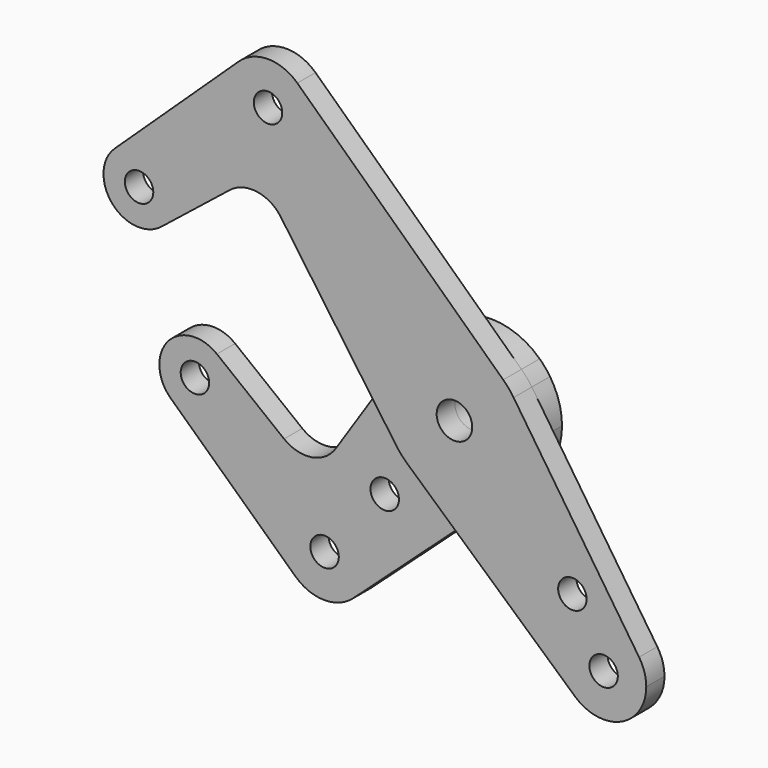
from build123d import *

# Parameters (mm, degrees)
F0_R     = 3.96875
F0_R_2   = 3.175
F1_DEPTH = 5.08
F2_DEPTH = 5.08


with BuildPart() as f1:
    # F0 (on Front) → F1 (new body)
    with BuildSketch(Plane.XZ):
        with BuildLine():
            ThreePointArc((-13.2524193062, 8.7400805221), (-1.834314477, 15.7686687897), (10.8922900307, 11.5487507067))
            Line((10.8922900307, 11.5487507067), (-35.0711574392, 54.8995176744))
            ThreePointArc((-35.0711574392, 54.8995176744), (-32.8608164346, 51.7436071154), (-32.0815314576, 47.9702672503))
            ThreePointArc((-32.0815314576, 47.9702672503), (-45.3798713227, 39.2245522274), (-48.1419054761, 54.8995176744))
            Line((-48.1419054761, 54.8995176744), (-75.8348368232, 28.7807237291))
            ThreePointArc((-75.8348368232, 28.7807237291), (-67.2442419203, 30.2944442282), (-62.4511918078, 23.0063483758))
            ThreePointArc((-62.4511918078, 23.0063483758), (-63.237943921, 19.5609585706), (-65.4422370763, 16.798571653))
            Line((-65.4422370763, 16.798571653), (-50.1509863937, 28.9828821829))
            ThreePointArc((-50.1509863937, 28.9828821829), (-44.0823996147, 30.6328866939), (-38.7182233604, 27.3502241323))
            Line((-38.7182233604, 27.3502241323), (-19.2147683858, -0.3005169703))
            Line((-19.2147683858, -0.3005169703), (-13.2524193062, 8.7400805221))
        make_face()
        with BuildLine():
            ThreePointArc((15.875, 0), (15.1912005478, 4.609018433), (13.1987101208, 8.820979319))
            ThreePointArc((13.1987101208, 8.820979319), (12.1224690662, 10.2499448164), (10.8922900307, 11.5487507067))
            ThreePointArc((10.8922900307, 11.5487507067), (-1.834314477, 15.7686687897), (-13.2524193062, 8.7400805221))
            ThreePointArc((-13.2524193062, 8.7400805221), (-15.8730587934, -0.2482529814), (-12.9726166036, -9.1502373442))
            ThreePointArc((-12.9726166036, -9.1502373442), (-11.8607666217, -10.5516747555), (-10.5983019047, -11.8191210221))
            ThreePointArc((-10.5983019047, -11.8191210221), (0.0485522706, -15.8749257534), (10.6703987497, -11.7540722953))
            ThreePointArc((10.6703987497, -11.7540722953), (14.5156502636, -6.4274040191), (15.875, 0))
        make_face()
        Circle(F0_R, mode=Mode.SUBTRACT)
        with BuildLine():
            ThreePointArc((-12.9726166036, -9.1502373442), (-15.8730587934, -0.2482529814), (-13.2524193062, 8.7400805221))
            Line((-13.2524193062, 8.7400805221), (-19.2147683858, -0.3005169703))
            Line((-19.2147683858, -0.3005169703), (-12.9726166036, -9.1502373442))
        make_face()
        with BuildLine():
            Line((-10.5983019047, -11.8191210221), (0.0653932355, -21.3813431455))
            Line((0.0653932355, -21.3813431455), (10.6703987497, -11.7540722953))
            ThreePointArc((10.6703987497, -11.7540722953), (0.0485522706, -15.8749257534), (-10.5983019047, -11.8191210221))
        make_face()
        with BuildLine():
            ThreePointArc((26.9262440233, -45.4676864135), (27.0442454474, -31.1806737127), (41.2044512386, -33.0836262089))
            Line((41.2044512386, -33.0836262089), (13.1987101208, 8.820979319))
            ThreePointArc((13.1987101208, 8.820979319), (15.1912005478, 4.609018433), (15.875, 0))
            ThreePointArc((15.875, 0), (14.5156502636, -6.4274040191), (10.6703987497, -11.7540722953))
            Line((10.6703987497, -11.7540722953), (0.0653932355, -21.3813431455))
            Line((0.0653932355, -21.3813431455), (26.9262440233, -45.4676864135))
        make_face()
        with Locations((26.3222689506, -25.5025770961)):
            Circle(F0_R_2, mode=Mode.SUBTRACT)
        with BuildLine():
            ThreePointArc((26.9262440233, -45.4676864135), (37.1682864336, -47.0737686401), (42.8102251661, -38.3762138003))
            ThreePointArc((42.8102251661, -38.3762138003), (42.3999454948, -35.6108027404), (41.2044512386, -33.0836262089))
            ThreePointArc((41.2044512386, -33.0836262089), (27.0442454474, -31.1806737127), (26.9262440233, -45.4676864135))
        make_face()
        with Locations((33.2852251661, -38.3762138003)):
            Circle(F0_R_2, mode=Mode.SUBTRACT)
        with BuildLine():
            ThreePointArc((-62.4511918078, 23.0063483758), (-67.2442419203, 30.2944442282), (-75.8348368232, 28.7807237291))
            ThreePointArc((-75.8348368232, 28.7807237291), (-76.3849752141, 17.8055319436), (-65.4422370763, 16.798571653))
            ThreePointArc((-65.4422370763, 16.798571653), (-63.237943921, 19.5609585706), (-62.4511918078, 23.0063483758))
        make_face()
        with Locations((-70.3886918078, 23.0063483758)):
            Circle(F0_R_2, mode=Mode.SUBTRACT)
        with BuildLine():
            ThreePointArc((-32.0815314576, 47.9702672503), (-32.8608164346, 51.7436071154), (-35.0711574392, 54.8995176744))
            ThreePointArc((-35.0711574392, 54.8995176744), (-41.6065314576, 57.4952672503), (-48.1419054761, 54.8995176744))
            ThreePointArc((-48.1419054761, 54.8995176744), (-45.3798713227, 39.2245522274), (-32.0815314576, 47.9702672503))
        make_face()
        with Locations((-41.6065314576, 47.9702672503)):
            Circle(F0_R_2, mode=Mode.SUBTRACT)
    extrude(amount=F1_DEPTH)


with BuildPart() as f2:
    # F0 (on Front) → F2 (new body)
    with BuildSketch(Plane.XZ):
        with BuildLine():
            Line((-26.647623873, -45.6315380732), (0.0653932355, -21.3813431455))
            Line((0.0653932355, -21.3813431455), (-10.5983019047, -11.8191210221))
            ThreePointArc((-10.5983019047, -11.8191210221), (-11.8607666217, -10.5516747555), (-12.9726166036, -9.1502373442))
            Line((-12.9726166036, -9.1502373442), (-19.2147683858, -0.3005169703))
            Line((-19.2147683858, -0.3005169703), (-30.5474012326, -17.4839744853))
            ThreePointArc((-30.5474012326, -17.4839744853), (-35.9047663103, -20.9493627188), (-42.0820013957, -19.3518512525))
            Line((-42.0820013957, -19.3518512525), (-57.0757936348, -7.5537803256))
            ThreePointArc((-57.0757936348, -7.5537803256), (-54.8440071189, -10.3244537385), (-54.0466841448, -13.7916973539))
            ThreePointArc((-54.0466841448, -13.7916973539), (-58.817458973, -21.070142101), (-67.394906617, -19.5992776228))
            Line((-67.394906617, -19.5992776228), (-39.5427300894, -45.5481910186))
            ThreePointArc((-39.5427300894, -45.5481910186), (-36.849933329, -29.8449609995), (-23.5248631228, -38.579094696))
            ThreePointArc((-23.5248631228, -38.579094696), (-24.3404729646, -42.4355371074), (-26.647623873, -45.6315380732))
        make_face()
        with Locations((-19.6233562292, -22.9063374758)):
            Circle(F0_R_2, mode=Mode.SUBTRACT)
        with BuildLine():
            ThreePointArc((15.875, 0), (15.1912005478, 4.609018433), (13.1987101208, 8.820979319))
            ThreePointArc((13.1987101208, 8.820979319), (12.1224690662, 10.2499448164), (10.8922900307, 11.5487507067))
            ThreePointArc((10.8922900307, 11.5487507067), (-1.834314477, 15.7686687897), (-13.2524193062, 8.7400805221))
            ThreePointArc((-13.2524193062, 8.7400805221), (-15.8730587934, -0.2482529814), (-12.9726166036, -9.1502373442))
            ThreePointArc((-12.9726166036, -9.1502373442), (-11.8607666217, -10.5516747555), (-10.5983019047, -11.8191210221))
            ThreePointArc((-10.5983019047, -11.8191210221), (0.0485522706, -15.8749257534), (10.6703987497, -11.7540722953))
            ThreePointArc((10.6703987497, -11.7540722953), (14.5156502636, -6.4274040191), (15.875, 0))
        make_face()
        Circle(F0_R, mode=Mode.SUBTRACT)
        with BuildLine():
            ThreePointArc((-39.5427300894, -45.5481910186), (-33.1114263313, -48.1038957423), (-26.647623873, -45.6315380732))
            ThreePointArc((-26.647623873, -45.6315380732), (-24.3404729646, -42.4355371074), (-23.5248631228, -38.579094696))
            ThreePointArc((-23.5248631228, -38.579094696), (-36.849933329, -29.8449609995), (-39.5427300894, -45.5481910186))
        make_face()
        with Locations((-33.0498631228, -38.579094696)):
            Circle(F0_R_2, mode=Mode.SUBTRACT)
        with BuildLine():
            ThreePointArc((-57.0757936348, -7.5537803256), (-68.0121676911, -8.627656241), (-67.394906617, -19.5992776228))
            ThreePointArc((-67.394906617, -19.5992776228), (-58.817458973, -21.070142101), (-54.0466841448, -13.7916973539))
            ThreePointArc((-54.0466841448, -13.7916973539), (-54.8440071189, -10.3244537385), (-57.0757936348, -7.5537803256))
        make_face()
        with Locations((-61.9841841448, -13.7916973539)):
            Circle(F0_R_2, mode=Mode.SUBTRACT)
        with BuildLine():
            Line((-10.5983019047, -11.8191210221), (0.0653932355, -21.3813431455))
            Line((0.0653932355, -21.3813431455), (10.6703987497, -11.7540722953))
            ThreePointArc((10.6703987497, -11.7540722953), (0.0485522706, -15.8749257534), (-10.5983019047, -11.8191210221))
        make_face()
        with BuildLine():
            ThreePointArc((-12.9726166036, -9.1502373442), (-15.8730587934, -0.2482529814), (-13.2524193062, 8.7400805221))
            Line((-13.2524193062, 8.7400805221), (-19.2147683858, -0.3005169703))
            Line((-19.2147683858, -0.3005169703), (-12.9726166036, -9.1502373442))
        make_face()
    extrude(amount=-F2_DEPTH)


solid = Compound([f1.part, f2.part])
